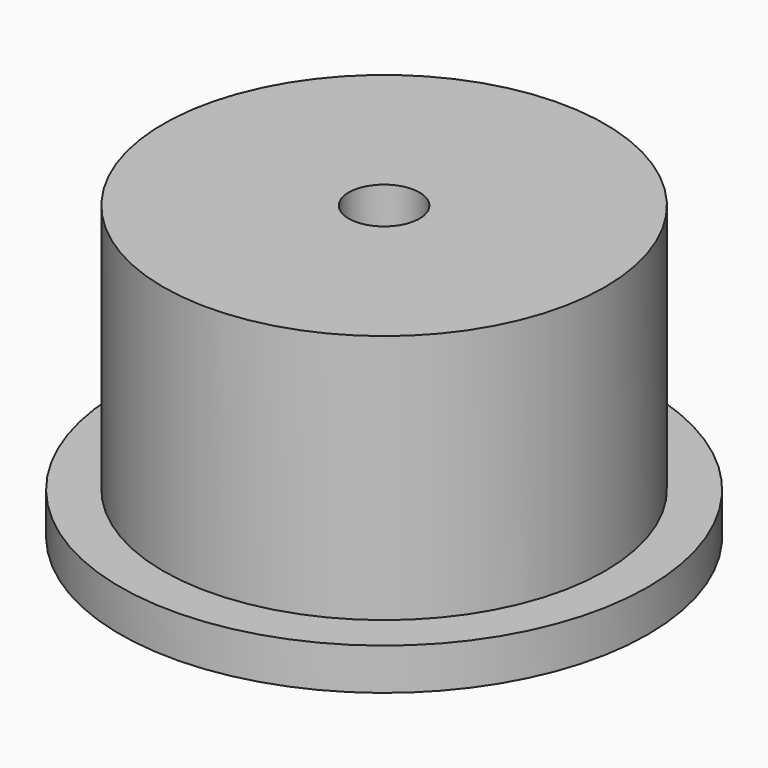
from build123d import *

# Parameters (mm, degrees)
F0_R     = 26.5
F1_DEPTH = 35
F0_R_2   = 31.673016
F2_DEPTH = 5
F3_D     = 8.5


with BuildPart() as f1:
    # F0 (on Top) → F1 (new body)
    with BuildSketch(Plane.XY):
        Circle(F0_R)
    extrude(amount=F1_DEPTH)

    # F0 (on Top) → F2 (join)
    with BuildSketch(Plane.XY):
        Circle(F0_R_2)
        Circle(F0_R, mode=Mode.SUBTRACT)
    extrude(amount=F2_DEPTH)

    # F3 (through all)
    with Locations(Plane(origin=(0, 0, 0), x_dir=(1, 0, 0), z_dir=(0, 0, -1))):
        with Locations((0, 0)):
            Hole(F3_D / 2)


solid = f1.part
